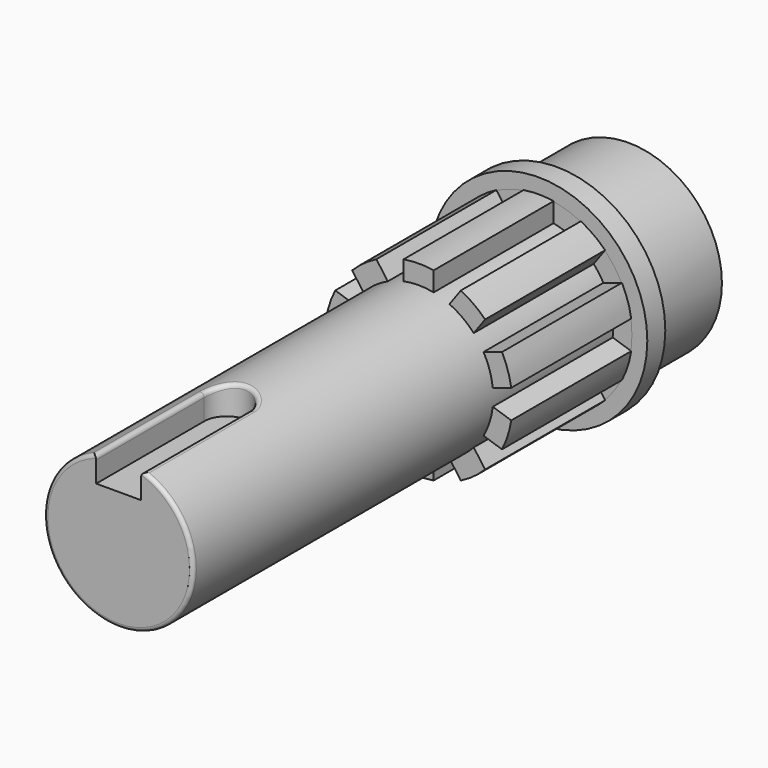
from build123d import *

# Parameters (mm, degrees)
F0_R     = 12.45
F0_R_2   = 9.95
F1_DEPTH = 15
F2_DEPTH = 70
F0_R_3   = 14.5
F3_DEPTH = 3
F5_DEPTH = 20
F6_COUNT = 10
F9_DEPTH = 3.95
F10_R    = 0.5


with BuildPart() as f1:
    # F0 (on Front) → F1 (new body)
    with BuildSketch(Plane.XZ):
        Circle(F0_R)
        Circle(F0_R_2, mode=Mode.SUBTRACT)
        Circle(F0_R_2)
    extrude(amount=-F1_DEPTH)

    # F0 (on Front) → F2 (join)
    with BuildSketch(Plane.XZ):
        Circle(F0_R_2)
    extrude(amount=F2_DEPTH)

    # F8 (on offset) → F9 (cut)
    with BuildSketch(Plane.XY.offset(6)):
        with BuildLine():
            Line((-3, -52), (-3, -70))
            Line((-3, -70), (3, -70))
            Line((3, -70), (3, -52))
            ThreePointArc((3, -52), (0, -49), (-3, -52))
        make_face()
    extrude(amount=F9_DEPTH, mode=Mode.SUBTRACT)

    # F10
    f10_edges = [f1.edges().sort_by_distance(p)[0] for p in [
        (-5.880157, -70, -8.026596),
        (-3, -61, 9.486965),
        (0, -49, 9.95),
        (3, -61, 9.486965),
    ]]
    fillet(f10_edges, radius=F10_R)


with BuildPart() as f3:
    # F0 (on Front) → F3 (new body)
    with BuildSketch(Plane.XZ):
        Circle(F0_R_3)
        Circle(F0_R, mode=Mode.SUBTRACT)
    extrude(amount=-F3_DEPTH)


with BuildPart() as f5:
    # F4 (on Front) → F5 (new body)
    with BuildSketch(Plane.XZ):
        with BuildLine():
            Line((2, 9.746923), (2, 12.338963))
            ThreePointArc((2, 12.338963), (0, 12.5), (-2, 12.338963))
            Line((-2, 12.338963), (-2, 9.746923))
            ThreePointArc((-2, 9.746923), (0, 9.95), (2, 9.746923))
        make_face()
    extrude(amount=F5_DEPTH)


with BuildPart() as f6_1:
    # F6: instance of F5
    add(f5.part.rotate(Axis((0, 0, 0), (0, 1, 0)), 1 * 360 / F6_COUNT))


with BuildPart() as f6_2:
    # F6: instance of F5
    add(f5.part.rotate(Axis((0, 0, 0), (0, 1, 0)), 2 * 360 / F6_COUNT))


with BuildPart() as f6_3:
    # F6: instance of F5
    add(f5.part.rotate(Axis((0, 0, 0), (0, 1, 0)), 3 * 360 / F6_COUNT))


with BuildPart() as f6_4:
    # F6: instance of F5
    add(f5.part.rotate(Axis((0, 0, 0), (0, 1, 0)), 4 * 360 / F6_COUNT))


with BuildPart() as f6_5:
    # F6: instance of F5
    add(f5.part.rotate(Axis((0, 0, 0), (0, 1, 0)), 5 * 360 / F6_COUNT))


with BuildPart() as f6_6:
    # F6: instance of F5
    add(f5.part.rotate(Axis((0, 0, 0), (0, 1, 0)), 6 * 360 / F6_COUNT))


with BuildPart() as f6_7:
    # F6: instance of F5
    add(f5.part.rotate(Axis((0, 0, 0), (0, 1, 0)), 7 * 360 / F6_COUNT))


with BuildPart() as f6_8:
    # F6: instance of F5
    add(f5.part.rotate(Axis((0, 0, 0), (0, 1, 0)), 8 * 360 / F6_COUNT))


with BuildPart() as f6_9:
    # F6: instance of F5
    add(f5.part.rotate(Axis((0, 0, 0), (0, 1, 0)), 9 * 360 / F6_COUNT))


solid = Compound([f1.part, f3.part, f5.part, f6_1.part, f6_2.part, f6_3.part, f6_4.part, f6_5.part, f6_6.part, f6_7.part, f6_8.part, f6_9.part])
